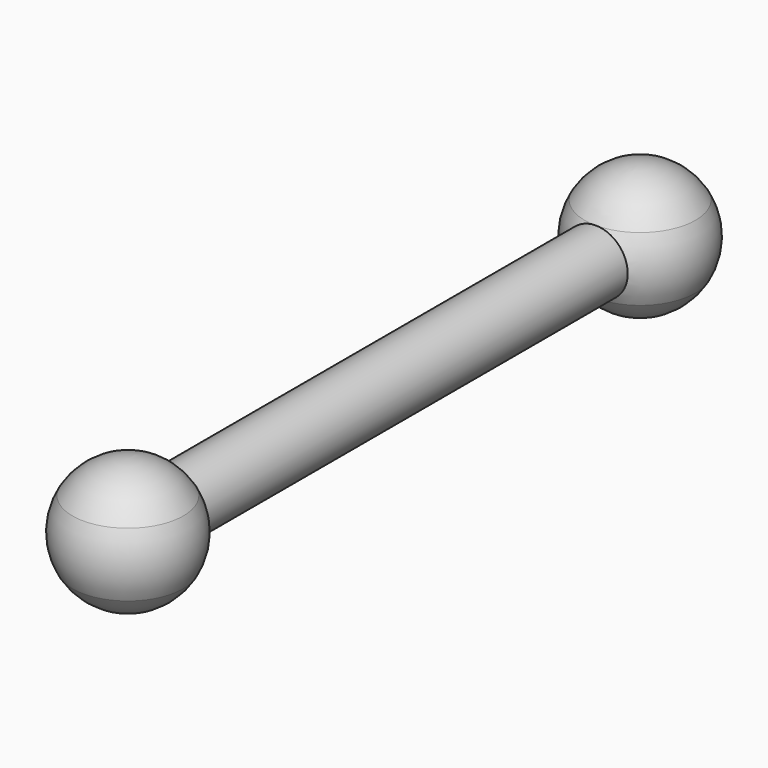
from build123d import *

# Parameters (mm, degrees)
F0_R     = 5
F1_DEPTH = 100


with BuildPart() as f1:
    # F0 (on Front) → F1 (new body)
    with BuildSketch(Plane.XZ):
        Circle(F0_R)
    extrude(amount=F1_DEPTH)

    # F2 (on Right) → F3 (revolve)
    with BuildSketch(Plane.YZ):
        with BuildLine():
            Line((0, -10), (0, 10))
            ThreePointArc((0, 10), (-5, 8.6602540378), (-8.6602540378, 5))
            ThreePointArc((-8.6602540378, 5), (-10, 0), (-8.6602540378, -5))
            ThreePointArc((-8.6602540378, -5), (-5, -8.6602540378), (0, -10))
        make_face()
    revolve(axis=Axis((0, 0, 0), (0, 0, -1)))

    # F2 (on Right) → F4 (revolve)
    with BuildSketch(Plane.YZ):
        with BuildLine():
            ThreePointArc((-91.3397459622, -5), (-90, 0), (-91.3397459622, 5))
            ThreePointArc((-91.3397459622, 5), (-95, 8.6602540378), (-100, 10))
            Line((-100, 10), (-100, -10))
            ThreePointArc((-100, -10), (-95, -8.6602540378), (-91.3397459622, -5))
        make_face()
    revolve(axis=Axis((0, -100, 0), (0, 0, -1)))


solid = f1.part
